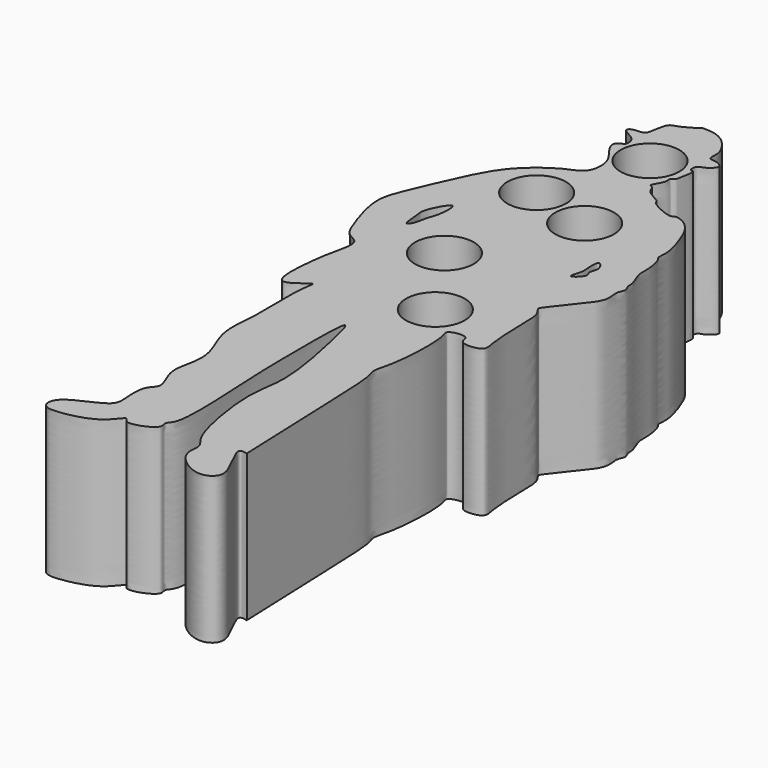
from build123d import *

# Parameters (mm, degrees)
F1_DEPTH = 31.75
F2_R     = 6.35
F4_DEPTH = 25.4
F3_R     = 6.3434261754
F3_R_2   = 6.35
F5_DEPTH = 50.8


with BuildPart() as f1:
    # F0 (on Top) → F1 (new body)
    with BuildSketch(Plane.XY):
        with BuildLine():
            add(Edge.make_bspline(
                [(-6.0770227574, 48.5528893769), (-5.2448434322, 48.5339526977), (-3.6262845245, 48.4971215366), (-1.5085157175, 47.5663555593), (0.0776548485, 46.0745490862), (2.0183363493, 43.1697753074), (1.2503548154, 40.2630786716), (3.3665980784, 40.5909310432), (4.4057332647, 39.7379066375), (4.8765806525, 39.4465317906), (4.6507442415, 38.5117242007), (2.9866921159, 37.2331001672), (1.6566720994, 37.1745125445), (1.52719711, 35.1081520383), (2.5772112913, 35.3909287862), (2.5124811946, 33.9800997621), (2.1970923467, 32.2319796797), (1.9169338481, 30.9207228116), (0.8701930256, 30.7508711667), (1.5672649286, 29.2574837521), (-0.6003783195, 26.6200093982), (0.9013360706, 26.4959720344), (0.998143896, 24.4937520403), (4.7768464267, 23.0425133719), (4.2637282433, 22.0013467716), (9.7367761748, 19.4658346119), (10.2609108351, 20.6363186234), (12.6007739666, 19.9554297361), (14.7164913259, 17.934686278), (16.1957223737, 14.5545058967), (17.8625444907, 9.5295944713), (17.2798837787, 6.9175944711), (18.180339089, 6.2948122673), (18.9652980313, 2.6506699045), (18.5320289828, 0.1028269074), (20.2200387297, -3.0964856144), (19.9196211867, -4.4929275114), (20.9347297089, -5.9665168784), (19.707019857, -7.3037391014), (20.8238765272, -10.723059916), (17.8512990349, -14.1413811163), (16.4446242334, -16.0184432164), (13.70915435, -19.4800045492), (13.151230346, -20.347616173), (14.4901434235, -21.6868129729), (14.8983431776, -25.0416263671), (14.7710828466, -34.3772140088), (16.2661983181, -38.2106961011), (10.2047683321, -38.610809888), (11.1401820554, -35.3985345452), (5.8775746432, -36.1596373298), (7.8356677084, -38.9585356552), (7.0122804392, -51.9312994068), (5.5516947311, -55.1907117496), (6.5836632247, -57.7663520183), (6.9210018228, -63.4960453008), (7.5631313989, -80.3981854333), (8.0188624561, -92.3939421773)],
                knots=[0, 0, 0, 0, 0.0177366341, 0.0344971165, 0.0512648546, 0.0723341698, 0.0892884434, 0.1032562382, 0.1163228821, 0.1239262991, 0.1338862738, 0.1501294307, 0.1626031874, 0.1762495159, 0.1850095907, 0.1967765288, 0.2127138708, 0.2252128394, 0.2345667499, 0.2476074931, 0.2663955135, 0.276146992, 0.2911386956, 0.3123212716, 0.322388769, 0.3483402074, 0.358954653, 0.3750473129, 0.3943393005, 0.4163425116, 0.442644653, 0.4598215323, 0.4705310038, 0.4915968183, 0.5106802236, 0.5313277274, 0.5446737542, 0.558334027, 0.5719942915, 0.5923182525, 0.6153317796, 0.6340456416, 0.6574309784, 0.6677229355, 0.6813451029, 0.7023171681, 0.7375392383, 0.757385773, 0.780008547, 0.7954250946, 0.8162701773, 0.8335305717, 0.8744394924, 0.8960068635, 0.9127504252, 0.9380773874, 1, 1, 1, 1], degree=3))
            add(Edge.make_bspline(
                [(8.0188624561, -92.3939421773), (7.3525628488, -92.2374965839), (5.5565060488, -91.8157866374), (8.1693568904, -96.7968942632), (10.5187144543, -101.4215606854), (6.330453403, -104.1216987374), (0.9784538516, -100.8945338018), (-0.2985404571, -97.7820036817), (0.4493112223, -94.913815573), (-2.7802627543, -92.6608484676), (-5.8705961695, -75.2131578127), (-3.2434103571, -67.7714089048), (-5.9443640166, -53.5792607742), (-8.8975623348, -41.0124993215), (-8.9198055783, -58.8213889541), (-8.8043353731, -71.5022675232), (-7.4207704966, -90.8957815153), (-10.0885082628, -92.2027968613), (-8.5236700408, -94.4259542692), (-15.3388936996, -97.090269953), (-15.7733069608, -94.0615581007), (-18.2840175087, -98.8029061599), (-25.8025726242, -100.6050859396), (-29.9377101351, -100.4938597741), (-30.0109576481, -95.7943282875), (-20.2045501262, -93.1242056107), (-20.6637082184, -89.3121287553), (-20.9190768263, -84.0041631308), (-18.0790081438, -82.4766221443), (-20.6964231239, -77.8862711654), (-20.6259919359, -74.3467871069), (-18.8866192094, -68.2215561062), (-23.4359799056, -60.7150385423), (-22.1701858434, -52.9260160113), (-22.5598242594, -45.0210029676), (-22.3433418136, -38.6774079963), (-21.48370812, -35.9227177958), (-28.4507084499, -42.8794097295), (-27.3908187074, -30.1739500714), (-26.6863990863, -26.0886516571), (-25.1734453855, -20.2213903404), (-28.869968185, -19.3766286748), (-30.620583353, -14.930537751), (-33.433833834, -6.3213308824), (-30.7999867944, -0.1067944522), (-25.5100140415, 12.6278604098), (-21.3658703138, 18.1246287573), (-15.6312267865, 22.4535579279), (-11.2684488647, 23.5609367388), (-10.7616415394, 27.7995692246), (-11.7116213986, 30.1107078168), (-13.0023554799, 31.6600010713), (-15.0119125901, 34.6069195754), (-13.3284144304, 35.6866274709), (-12.6172155972, 35.6706729381), (-12.3921467424, 38.4131302776), (-16.500781538, 39.6080537842), (-15.3170881281, 40.9087469173), (-13.5516071266, 40.8726603783), (-12.1172643494, 41.0820619866), (-12.0662576098, 46.0645227776), (-9.5908032617, 46.2911425979), (-7.3810195256, 47.7135340197), (-6.0770227574, 48.5528893769)],
                knots=[0, 0, 0, 0, 0.0093437558, 0.0251867417, 0.041979719, 0.0559940734, 0.0740457363, 0.0875919783, 0.099224735, 0.1130353302, 0.143811795, 0.165970434, 0.1955162343, 0.2155612883, 0.2405680457, 0.2715177002, 0.303130139, 0.3132142735, 0.3226798343, 0.3406480287, 0.3492273567, 0.3635833271, 0.3851294561, 0.3989117584, 0.4118672428, 0.434377267, 0.4480070507, 0.4647945694, 0.4764444908, 0.4922639855, 0.5067016437, 0.5249925694, 0.5466887795, 0.5675978758, 0.5892408463, 0.6086138283, 0.616516722, 0.633372534, 0.6550819992, 0.6731612264, 0.689636698, 0.7021322735, 0.7182833144, 0.7404173488, 0.7602154135, 0.7879328102, 0.8082161427, 0.8279976281, 0.8432274313, 0.8575786644, 0.8692605237, 0.8803844638, 0.8935682182, 0.9025888874, 0.9082603235, 0.9190294281, 0.9330170502, 0.94021878, 0.9503041855, 0.9583248221, 0.9737273814, 0.9844964875, 1, 1, 1, 1], degree=3))
        make_face()
        with BuildLine():
            add(Edge.make_bspline(
                [(-21.4416980743, 0), (-20.9028361119, -0.1575830131), (-21.1405787381, -4.3914131857), (-22.0036017986, -5.683870879), (-22.3819892715, -8.7894308529), (-23.7133130229, -10.7401786435), (-24.0067009238, -6.1559110545), (-24.4495982056, -4.2575760991), (-22.0177095664, 0.1684468989), (-21.4416980743, 0)],
                knots=[0, 0, 0, 0, 0.16656103, 0.2873643008, 0.4360889476, 0.5276305118, 0.6790789434, 0.8219561333, 1, 1, 1, 1], degree=3))
        make_face(mode=Mode.SUBTRACT)
        with BuildLine():
            add(Edge.make_bspline(
                [(10.2695059031, -7.613635622), (10.6118867949, -7.746403676), (12.8248823998, -5.8655089514), (11.3600974737, -4.5212482694), (12.7653107328, -2.7657235567), (10.602721399, 0.155611121), (10.5474999341, -3.4865585065), (10.9392115469, -5.0751826963), (9.9469702862, -7.488563145), (10.2695059031, -7.613635622)],
                knots=[0, 0, 0, 0, 0.1562093316, 0.2748078439, 0.4124174383, 0.5548338266, 0.7019888738, 0.852844962, 1, 1, 1, 1], degree=3))
        make_face(mode=Mode.SUBTRACT)
    extrude(amount=F1_DEPTH)

    # F2 (on face) → F4 (cut)
    with BuildSketch(Plane.XY.offset(31.75)):
        with Locations((0, 8.9217170022)):
            Circle(F2_R)
        with Locations((-11.6829547499, -14.3702115331)):
            Circle(F2_R)
        with Locations((-13.3199328557, 12.602057308)):
            Circle(F2_R)
        with Locations((0, -31.4262732863)):
            Circle(F2_R)
    extrude(amount=-F4_DEPTH, mode=Mode.SUBTRACT)

    # F3 (on face) → F5 (cut)
    with BuildSketch(Plane.XY.offset(31.75)):
        with Locations((-121.2753200523, 74.150391832)):
            Circle(F3_R)
        with Locations((-5.6743252332, 33.6533372375)):
            Circle(F3_R_2)
    extrude(amount=-F5_DEPTH, mode=Mode.SUBTRACT)


solid = f1.part
